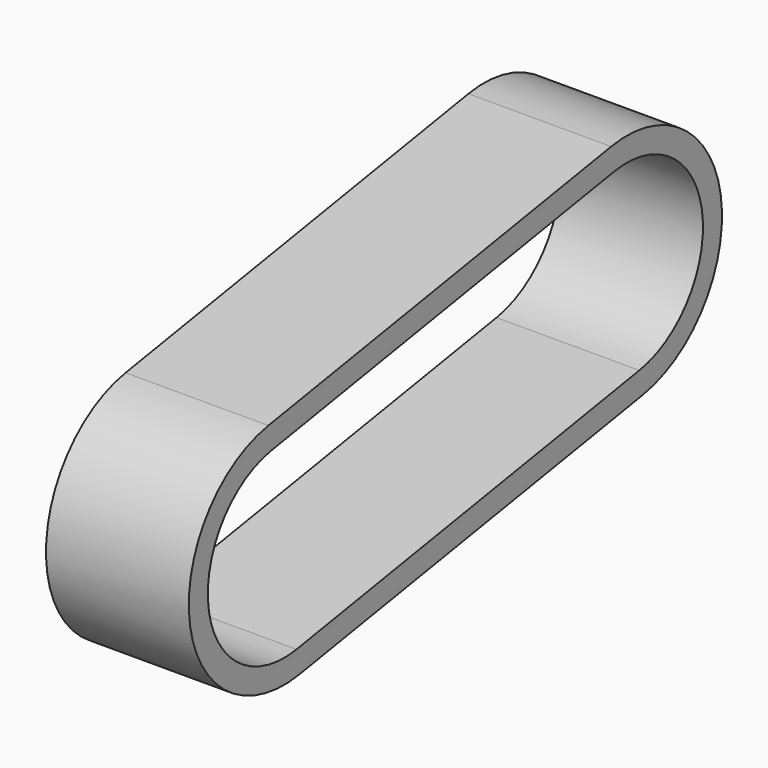
from build123d import *

# Parameters (mm, degrees)
F1_DEPTH = 30


with BuildPart() as f1:
    # F0 (on Right) → F1 (new body)
    with BuildSketch(Plane.YZ):
        with BuildLine():
            ThreePointArc((55.890025, 84.659848), (35.340152, 55.890025), (64.109975, 35.340152))
            Line((64.109975, 35.340152), (154.109975, 50.340152))
            ThreePointArc((154.109975, 50.340152), (174.659848, 79.109975), (145.890025, 99.659848))
            Line((145.890025, 99.659848), (55.890025, 84.659848))
        make_face()
        with BuildLine():
            ThreePointArc((63.28798, 40.272122), (40.272122, 56.71202), (56.71202, 79.727878))
            Line((56.71202, 79.727878), (146.71202, 94.727878))
            ThreePointArc((146.71202, 94.727878), (169.727878, 78.28798), (153.28798, 55.272122))
            Line((153.28798, 55.272122), (63.28798, 40.272122))
        make_face(mode=Mode.SUBTRACT)
    extrude(amount=F1_DEPTH)


solid = f1.part
